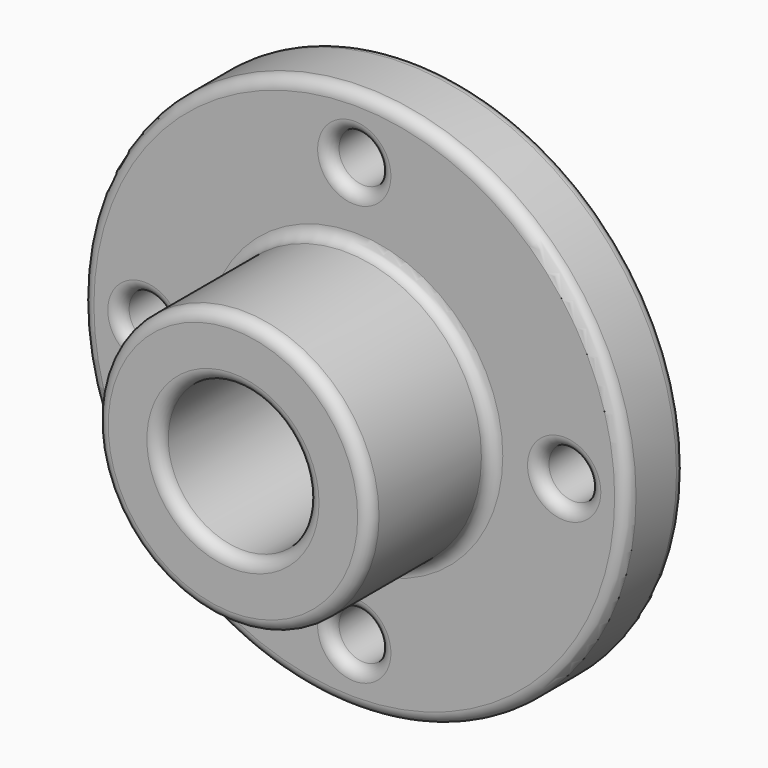
from build123d import *

# Parameters (mm, degrees)
F0_R          = 69.85
F1_DEPTH      = 9.525
F2_R          = 35.052
F3_DEPTH      = 5.4085
F3_DEPTH_BACK = 48.4378
F4_R          = 3.048
F6_R          = 6.35
F7_DEPTH      = 25.4
F8_R          = 3.048
F9_R          = 19.0373
F10_DEPTH     = 50.8
F11_R         = 3.048
F12_R         = 3.048


with BuildPart() as f1:
    # F0 (on Front) → F1 (new body, symmetric)
    with BuildSketch(Plane.XZ):
        Circle(F0_R)
    extrude(amount=F1_DEPTH, both=True)

    # F2 (on Front) → F3 (join, two sides)
    with BuildSketch(Plane.XZ) as f3_sk:
        Circle(F2_R)
    extrude(amount=-F3_DEPTH)
    extrude(f3_sk.sketch, amount=F3_DEPTH_BACK)

    # F4
    f4_edges = [f1.edges().sort_by_distance(p)[0] for p in [
        (-35.052, -9.525, 0),
    ]]
    fillet(f4_edges, radius=F4_R)

    # F6 (on Front) → F7 (cut, symmetric)
    with BuildSketch(Plane.XZ):
        with Locations((0, 53.848)):
            Circle(F6_R)
        with Locations((53.848, 0)):
            Circle(F6_R)
        with Locations((-53.848, 0)):
            Circle(F6_R)
        with Locations((0, -53.848)):
            Circle(F6_R)
    extrude(amount=F7_DEPTH, both=True, mode=Mode.SUBTRACT)

    # F8
    f8_edges = [f1.edges().sort_by_distance(p)[0] for p in [
        (-60.198, -9.525, 0),
        (-6.35, -9.525, 53.848),
        (47.498, -9.525, 0),
        (-6.35, -9.525, -53.848),
        (47.498, 9.525, 0),
        (-6.35, 9.525, 53.848),
        (-60.198, 9.525, 0),
        (-6.35, 9.525, -53.848),
    ]]
    fillet(f8_edges, radius=F8_R)

    # F9 (on Front) → F10 (cut, symmetric)
    with BuildSketch(Plane.XZ):
        Circle(F9_R)
    extrude(amount=F10_DEPTH, both=True, mode=Mode.SUBTRACT)

    # F11
    f11_edges = [f1.edges().sort_by_distance(p)[0] for p in [
        (-19.0373, -48.4378, 0),
    ]]
    fillet(f11_edges, radius=F11_R)

    # F12
    f12_edges = [f1.edges().sort_by_distance(p)[0] for p in [
        (-35.052, -48.4378, 0),
        (-69.85, -9.525, 0),
        (-69.85, 9.525, 0),
    ]]
    fillet(f12_edges, radius=F12_R)


solid = f1.part
